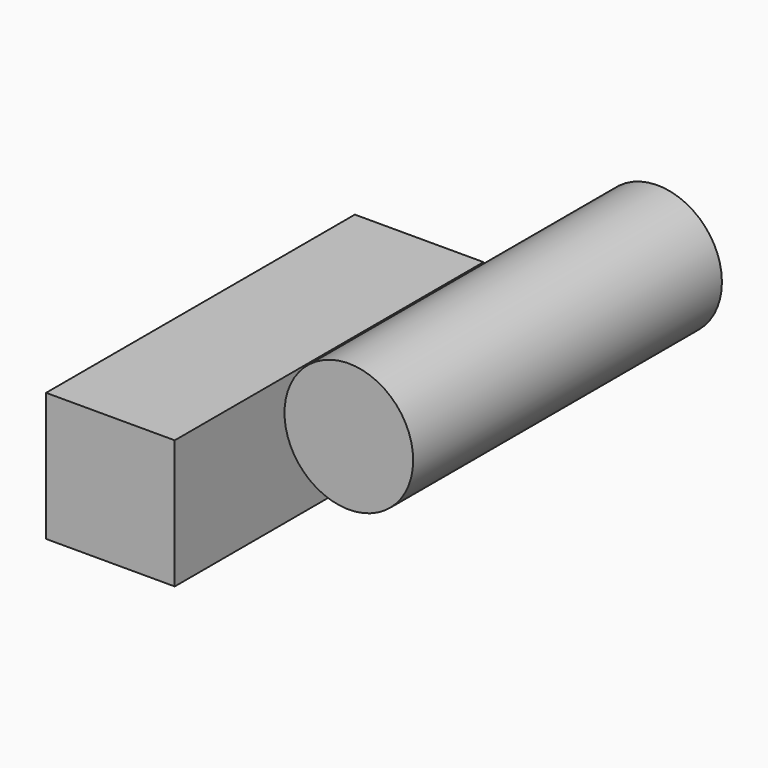
from build123d import *

# Parameters (mm, degrees)
F0_R     = 12.7
F0_W     = 25.4
F0_H     = 25.4
F1_DEPTH = 76.2


with BuildPart() as f1:
    # F0 (on Front) → F1 (new body)
    with BuildSketch(Plane.XZ):
        with Locations((18.5226, 16.613055)):
            Circle(F0_R)
        with Locations((-28.549236, -7.923103)):
            Rectangle(F0_W, F0_H)
    extrude(amount=F1_DEPTH)


solid = f1.part
